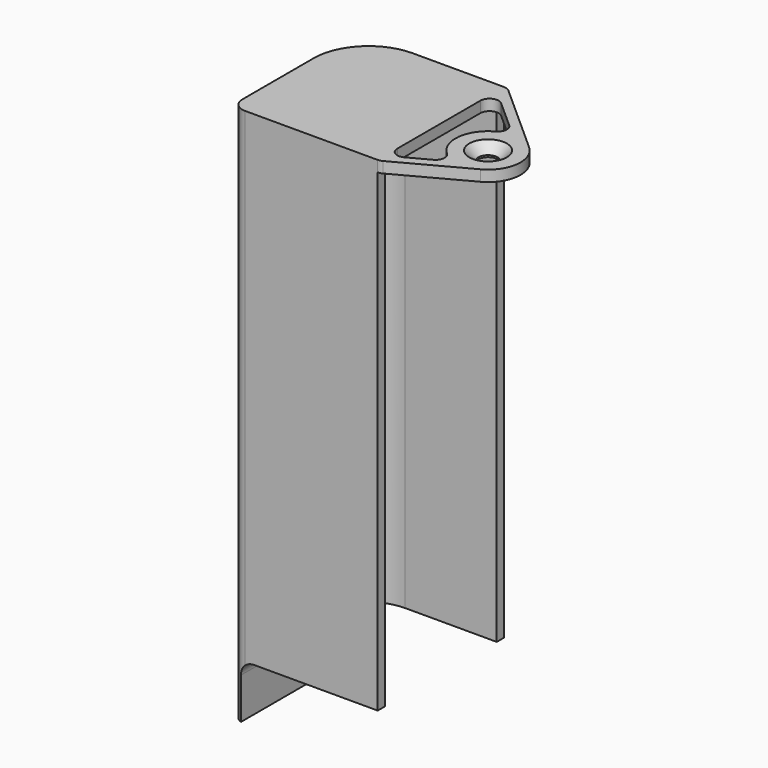
from build123d import *

# Parameters (mm, degrees)
PAD015_DEPTH        = 115.5
POCKET006_DEPTH     = 2
POCKET007_DEPTH     = 34.501
SKETCH032_R         = 2.1
PAD016_DEPTH        = 2.4
HOLE006_D           = 4
HOLE006_DEPTH       = 25
HOLE006_CSINK_D     = 8.2
HOLE006_CSINK_ANGLE = 90
HOLE006_TIPS_R      = 2


with BuildPart() as part:
    # Sketch029 → Pad015 (new body)
    with BuildSketch(Plane.XY):
        with BuildLine():
            Line((32, 34.5), (12, 34.5))
            ThreePointArc((12, 34.5), (3.514719, 30.985281), (0, 22.5))
            Line((0, 22.5), (0, 3))
            ThreePointArc((0, 3), (0.87868, 0.87868), (3, 0))
            Line((3, 0), (32, 0))
            Line((32, 0), (32, 2))
            Line((32, 2), (5, 2))
            ThreePointArc((2, 5), (2.87868, 2.87868), (5, 2))
            Line((2, 5), (2, 22.5))
            ThreePointArc((12, 32.5), (4.928932, 29.571068), (2, 22.5))
            Line((12, 32.5), (32, 32.5))
            Line((32, 32.5), (32, 34.5))
        make_face()
    extrude(amount=PAD015_DEPTH)

    # Sketch030 (on Face3 of Pad015) → Pocket006 (cut)
    with BuildSketch(Plane(origin=(0, 34.5, 0), x_dir=(-1, 0, 0), z_dir=(0, 1, 0))):
        with BuildLine():
            Line((-32, 0), (-12, 0))
            Line((-12, 0), (-12, 7))
            ThreePointArc((-12, 7), (-12.87868, 9.12132), (-15, 10))
            Line((-15, 10), (-32, 10))
            Line((-32, 10), (-32, 0))
        make_face()
    extrude(amount=-POCKET006_DEPTH, mode=Mode.SUBTRACT)

    # Sketch031 (on Face12 of Pocket006) → Pocket007 (cut, through all)
    with BuildSketch(Plane.XZ):
        with BuildLine():
            Line((2, 0), (32, 0))
            Line((32, 0), (32, 12))
            Line((32, 12), (5, 12))
            ThreePointArc((5, 12), (2.87868, 11.12132), (2, 9))
            Line((2, 9), (2, 0))
        make_face()
    extrude(amount=-POCKET007_DEPTH, mode=Mode.SUBTRACT)

    # Sketch032 (on Face4 of Pocket007) → Pad016 (join)
    with BuildSketch(Plane.XY.offset(115.5)):
        with BuildLine():
            ThreePointArc((12, 34.5), (3.514719, 30.985281), (0, 22.5))
            Line((0, 3), (0, 22.5))
            ThreePointArc((0, 3), (0.87868, 0.87868), (3, 0))
            Line((3, 0), (32, 0))
            ThreePointArc((32, 0), (32.487769, 0.060391), (32.946081, 0.237919))
            Line((32.946081, 0.237919), (47.858588, 8.244612))
            ThreePointArc((47.858588, 8.244612), (51.550546, 13.663456), (49.22913, 19.795784))
            Line((33.332149, 33.99177), (49.22913, 19.795784))
            ThreePointArc((33.332149, 33.99177), (32.712902, 34.368628), (32, 34.5))
            Line((12, 34.5), (32, 34.5))
        make_face()
        with Locations((44.5, 14.5)):
            Circle(SKETCH032_R, mode=Mode.SUBTRACT)
        with BuildLine():
            Line((32, 5.343865), (32, 28.032624))
            ThreePointArc((35.332149, 29.524394), (33.182779, 29.858042), (32, 28.032624))
            Line((35.332149, 29.524394), (41.515411, 24.002748))
            ThreePointArc((41.131996, 20.750324), (42.169508, 22.276828), (41.515411, 24.002748))
            ThreePointArc((41.131996, 20.750324), (37.449454, 15.336544), (39.762901, 9.211343))
            ThreePointArc((39.374588, 5.959499), (40.414398, 7.484439), (39.762901, 9.211343))
            Line((34.946081, 3.581784), (39.374588, 5.959499))
            ThreePointArc((32, 5.343865), (32.973395, 3.62745), (34.946081, 3.581784))
        make_face(mode=Mode.SUBTRACT)
    extrude(amount=PAD016_DEPTH)

    # Hole006
    with Locations(Plane.XY.offset(117.9)):
        with Locations((44.5, 14.5)):
            CounterSinkHole(HOLE006_D / 2, HOLE006_CSINK_D / 2, depth=HOLE006_DEPTH, counter_sink_angle=HOLE006_CSINK_ANGLE)

    # Hole006 tips → Hole006 tip 1 section 0
    with BuildSketch(Plane.XY.offset(92.9), mode=Mode.PRIVATE) as hole006_tip_1_s0:
        with Locations((44.5, 14.5)):
            Circle(HOLE006_TIPS_R)
    loft([hole006_tip_1_s0.sketch, Vertex(44.5, 14.5, 91.698279)], mode=Mode.SUBTRACT)


with BuildPart() as part_1:
    # Body006 placement: moved
    add(part.part.moved(Location((0, -62.8, 0))))


solid = part_1.part
